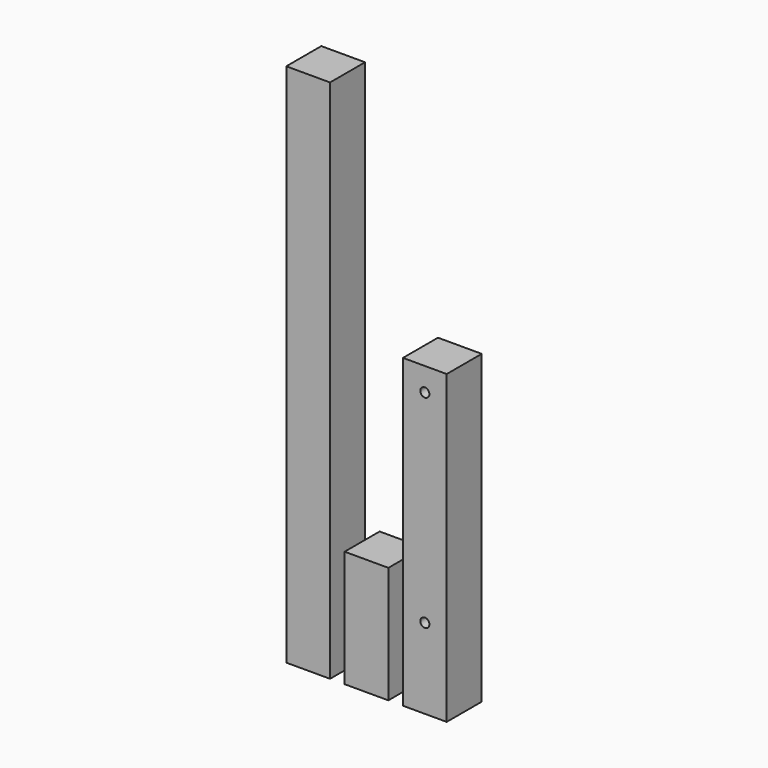
from build123d import *

# Parameters (mm, degrees)
F0_W     = 38.1
F0_H     = 38.1
F1_DEPTH = 457.2
F2_DEPTH = 101.6
F3_DEPTH = 266.7
F4_R     = 3.96875
F5_DEPTH = 38.101


with BuildPart() as f1:
    # F0 (on Top) → F1 (new body)
    with BuildSketch(Plane.XY):
        with Locations((19.05, 19.05)):
            Rectangle(F0_W, F0_H)
    extrude(amount=F1_DEPTH)


with BuildPart() as f2:
    # F0 (on Top) → F2 (new body)
    with BuildSketch(Plane.XY):
        with Locations((69.85, 19.05)):
            Rectangle(F0_W, F0_H)
    extrude(amount=F2_DEPTH)


with BuildPart() as f3:
    # F0 (on Top) → F3 (new body)
    with BuildSketch(Plane.XY):
        with Locations((120.65, 19.05)):
            Rectangle(F0_W, F0_H)
    extrude(amount=F3_DEPTH)

    # F4 (on face) → F5 (cut, through all)
    with BuildSketch(Plane.XZ):
        with Locations((120.65, 69.85)):
            Circle(F4_R)
        with Locations((120.65, 246.38)):
            Circle(F4_R)
    extrude(amount=-F5_DEPTH, mode=Mode.SUBTRACT)


solid = Compound([f1.part, f2.part, f3.part])
